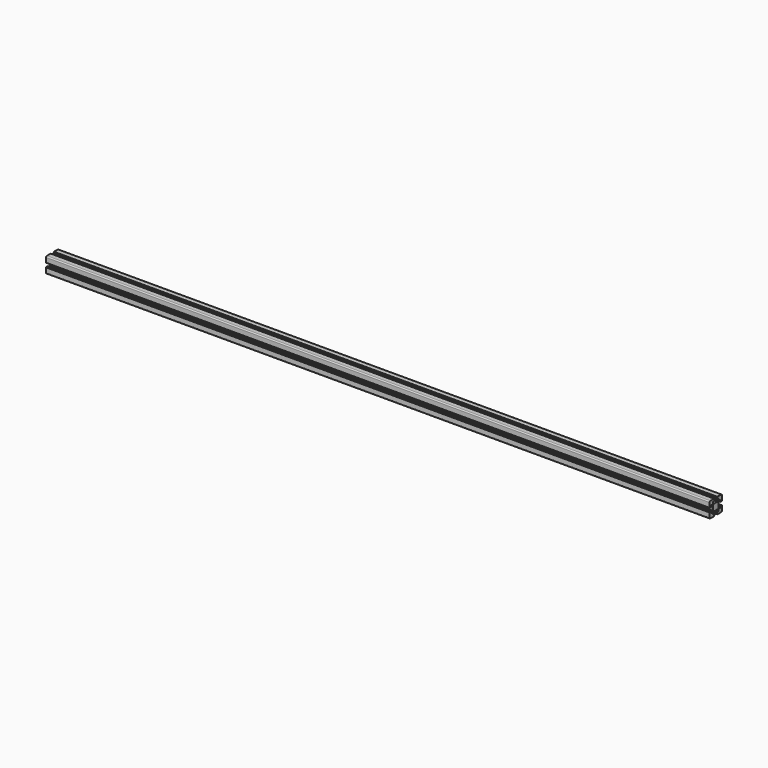
from build123d import *

# Parameters (mm, degrees)
F1_DEPTH = 1917.7


with BuildPart() as f1:
    # F0 (on Right) → F1 (new body)
    with BuildSketch(Plane.YZ):
        with BuildLine():
            Line((-20.088481, -9.788837), (-20.088481, -10.288837))
            Line((-20.088481, -10.288837), (-21.28859, -10.288837))
            ThreePointArc((-21.28859, -10.288837), (-21.500722, -10.376705), (-21.58859, -10.588837))
            Line((-21.58859, -10.588837), (-21.58859, -23.988949))
            ThreePointArc((-21.58859, -23.988949), (-20.70991, -26.11027), (-18.58859, -26.988949))
            Line((-18.58859, -26.988949), (-5.188544, -26.988949))
            ThreePointArc((-5.188544, -26.988949), (-4.976411, -26.901081), (-4.888544, -26.688949))
            Line((-4.888544, -26.688949), (-4.888544, -25.488841))
            Line((-4.888544, -25.488841), (-4.388544, -25.488841))
            ThreePointArc((-4.388544, -25.488841), (-4.176411, -25.400973), (-4.088544, -25.188841))
            Line((-4.088544, -25.188841), (-4.088544, -21.288841))
            ThreePointArc((-4.088544, -21.288841), (-4.176411, -21.076709), (-4.388544, -20.988841))
            Line((-4.388544, -20.988841), (-9.138663, -20.988841))
            Line((-9.138663, -20.988841), (-9.138663, -16.881665))
            Line((-9.138663, -16.881665), (-6.245729, -13.988731))
            Line((-6.245729, -13.988731), (-2.211433, -13.988731))
            ThreePointArc((-2.211433, -13.988731), (-0.669869, -14.363044), (0.91149, -14.48887))
            Line((0.91149, -14.48887), (0.91149, -4.48887))
            Line((0.91149, -4.48887), (-9.08851, -4.48887))
            ThreePointArc((-9.08851, -4.48887), (-8.962684, -6.070229), (-8.588371, -7.611793))
            Line((-8.588371, -7.611793), (-8.588371, -11.646022))
            Line((-8.588371, -11.646022), (-11.481305, -14.538956))
            Line((-11.481305, -14.538956), (-15.588481, -14.538956))
            Line((-15.588481, -14.538956), (-15.588481, -9.788837))
            ThreePointArc((-15.588481, -9.788837), (-15.676349, -9.576705), (-15.888481, -9.488837))
            Line((-15.888481, -9.488837), (-19.788481, -9.488837))
            ThreePointArc((-19.788481, -9.488837), (-20.000613, -9.576705), (-20.088481, -9.788837))
        make_face()
        with BuildLine():
            ThreePointArc((-8.588371, -1.365947), (-8.962684, -2.907511), (-9.08851, -4.48887))
            Line((-9.08851, -4.48887), (0.91149, -4.48887))
            Line((0.91149, -4.48887), (0.91149, 5.51113))
            ThreePointArc((0.91149, 5.51113), (-0.669869, 5.385303), (-2.211433, 5.010991))
            Line((-2.211433, 5.010991), (-6.245729, 5.010991))
            Line((-6.245729, 5.010991), (-9.138663, 7.903925))
            Line((-9.138663, 7.903925), (-9.138663, 12.011101))
            Line((-9.138663, 12.011101), (-4.388544, 12.011101))
            ThreePointArc((-4.388544, 12.011101), (-4.176411, 12.098969), (-4.088544, 12.311101))
            Line((-4.088544, 12.311101), (-4.088544, 16.211101))
            ThreePointArc((-4.088544, 16.211101), (-4.176411, 16.423233), (-4.388544, 16.511101))
            Line((-4.388544, 16.511101), (-4.888544, 16.511101))
            Line((-4.888544, 16.511101), (-4.888544, 17.711209))
            ThreePointArc((-4.888544, 17.711209), (-4.976411, 17.923341), (-5.188544, 18.011209))
            Line((-5.188544, 18.011209), (-18.58859, 18.011209))
            ThreePointArc((-18.58859, 18.011209), (-20.70991, 17.13253), (-21.58859, 15.011209))
            Line((-21.58859, 15.011209), (-21.58859, 1.611097))
            ThreePointArc((-21.58859, 1.611097), (-21.500722, 1.398965), (-21.28859, 1.311097))
            Line((-21.28859, 1.311097), (-20.088481, 1.311097))
            Line((-20.088481, 1.311097), (-20.088481, 0.811097))
            ThreePointArc((-20.088481, 0.811097), (-20.000613, 0.598965), (-19.788481, 0.511097))
            Line((-19.788481, 0.511097), (-15.888481, 0.511097))
            ThreePointArc((-15.888481, 0.511097), (-15.676349, 0.598965), (-15.588481, 0.811097))
            Line((-15.588481, 0.811097), (-15.588481, 5.561216))
            Line((-15.588481, 5.561216), (-11.481305, 5.561216))
            Line((-11.481305, 5.561216), (-8.588371, 2.668282))
            Line((-8.588371, 2.668282), (-8.588371, -1.365947))
        make_face()
        with BuildLine():
            Line((0.91149, 5.51113), (0.91149, -4.48887))
            Line((0.91149, -4.48887), (10.91149, -4.48887))
            ThreePointArc((10.91149, -4.48887), (10.785663, -2.907511), (10.41135, -1.365947))
            Line((10.41135, -1.365947), (10.41135, 2.668282))
            Line((10.41135, 2.668282), (13.304285, 5.561216))
            Line((13.304285, 5.561216), (14.016842, 5.561216))
            Line((14.016842, 5.561216), (17.41146, 5.561216))
            Line((17.41146, 5.561216), (17.41146, 0.811097))
            ThreePointArc((17.41146, 0.811097), (17.499328, 0.598965), (17.71146, 0.511097))
            Line((17.71146, 0.511097), (21.61146, 0.511097))
            ThreePointArc((21.61146, 0.511097), (21.823593, 0.598965), (21.91146, 0.811097))
            Line((21.91146, 0.811097), (21.91146, 1.311097))
            Line((21.91146, 1.311097), (23.111569, 1.311097))
            ThreePointArc((23.111569, 1.311097), (23.323701, 1.398965), (23.411569, 1.611097))
            Line((23.411569, 1.611097), (23.411569, 15.011209))
            ThreePointArc((23.411569, 15.011209), (22.532889, 17.13253), (20.411569, 18.011209))
            Line((20.411569, 18.011209), (7.011523, 18.011209))
            ThreePointArc((7.011523, 18.011209), (6.799391, 17.923341), (6.711523, 17.711209))
            Line((6.711523, 17.711209), (6.711523, 16.511101))
            Line((6.711523, 16.511101), (6.211523, 16.511101))
            ThreePointArc((6.211523, 16.511101), (5.999391, 16.423233), (5.911523, 16.211101))
            Line((5.911523, 16.211101), (5.911523, 12.311101))
            ThreePointArc((5.911523, 12.311101), (5.999391, 12.098969), (6.211523, 12.011101))
            Line((6.211523, 12.011101), (10.961642, 12.011101))
            Line((10.961642, 12.011101), (10.961642, 7.903925))
            Line((10.961642, 7.903925), (8.068708, 5.010991))
            Line((8.068708, 5.010991), (4.034413, 5.010991))
            ThreePointArc((4.034413, 5.010991), (2.492849, 5.385303), (0.91149, 5.51113))
        make_face()
        with BuildLine():
            Line((10.91149, -4.48887), (0.91149, -4.48887))
            Line((0.91149, -4.48887), (0.91149, -14.48887))
            ThreePointArc((0.91149, -14.48887), (2.492849, -14.363044), (4.034413, -13.988731))
            Line((4.034413, -13.988731), (8.068708, -13.988731))
            Line((8.068708, -13.988731), (10.961642, -16.881665))
            Line((10.961642, -16.881665), (10.961642, -20.988841))
            Line((10.961642, -20.988841), (6.211523, -20.988841))
            ThreePointArc((6.211523, -20.988841), (5.999391, -21.076709), (5.911523, -21.288841))
            Line((5.911523, -21.288841), (5.911523, -25.188841))
            ThreePointArc((5.911523, -25.188841), (5.999391, -25.400973), (6.211523, -25.488841))
            Line((6.211523, -25.488841), (6.711523, -25.488841))
            Line((6.711523, -25.488841), (6.711523, -26.688949))
            ThreePointArc((6.711523, -26.688949), (6.799391, -26.901081), (7.011523, -26.988949))
            Line((7.011523, -26.988949), (20.411569, -26.988949))
            ThreePointArc((20.411569, -26.988949), (22.532889, -26.11027), (23.411569, -23.988949))
            Line((23.411569, -23.988949), (23.411569, -10.588837))
            ThreePointArc((23.411569, -10.588837), (23.323701, -10.376705), (23.111569, -10.288837))
            Line((23.111569, -10.288837), (21.91146, -10.288837))
            Line((21.91146, -10.288837), (21.91146, -9.788837))
            ThreePointArc((21.91146, -9.788837), (21.823593, -9.576705), (21.61146, -9.488837))
            Line((21.61146, -9.488837), (17.71146, -9.488837))
            ThreePointArc((17.71146, -9.488837), (17.499328, -9.576705), (17.41146, -9.788837))
            Line((17.41146, -9.788837), (17.41146, -14.538956))
            Line((17.41146, -14.538956), (13.304285, -14.538956))
            Line((13.304285, -14.538956), (10.41135, -11.646022))
            Line((10.41135, -11.646022), (10.41135, -7.611793))
            ThreePointArc((10.41135, -7.611793), (10.785663, -6.070229), (10.91149, -4.48887))
        make_face()
    extrude(amount=F1_DEPTH)


solid = f1.part
